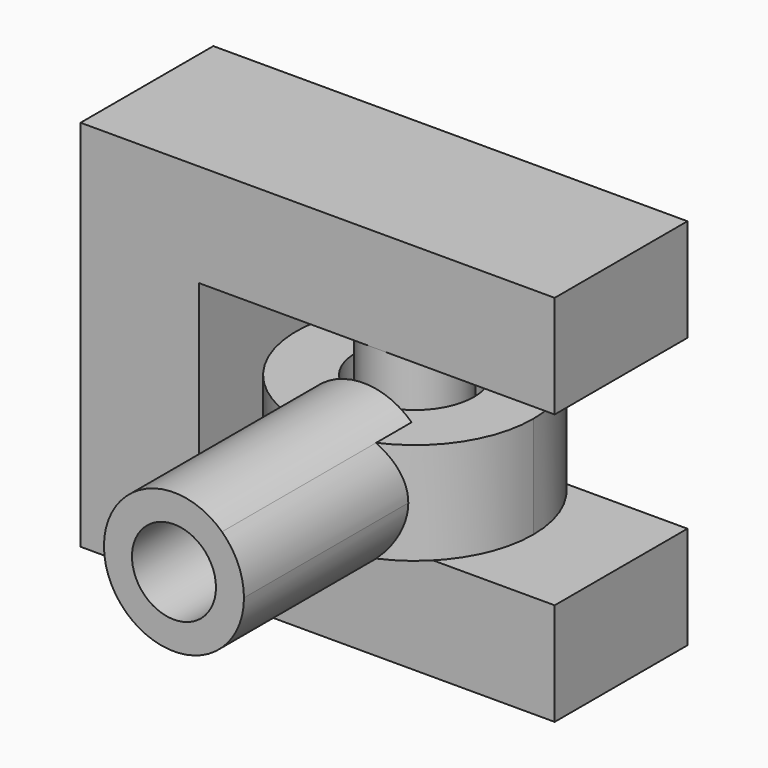
from build123d import *

# Parameters (mm, degrees)
F0_W      = 25.4
F0_H      = 8.89
F1_DEPTH  = 10
F2_W      = 19.05
F2_H      = 9
F3_DEPTH  = 8.891
F4_R      = 2.54
F5_DEPTH  = 9
F7_R      = 3.175
F8_DEPTH  = 5.46
F11_DEPTH = 12.7
F12_R     = 2.25
F13_DEPTH = 10.16


with BuildPart() as f1:
    # F0 (on Top) → F1 (new body, symmetric)
    with BuildSketch(Plane.XY):
        Rectangle(F0_W, F0_H)
    extrude(amount=F1_DEPTH, both=True)

    # F2 (on face) → F3 (cut, through all)
    with BuildSketch(Plane.XZ.offset(4.445)):
        with Locations((3.175, 0)):
            Rectangle(F2_W, F2_H)
    extrude(amount=-F3_DEPTH, mode=Mode.SUBTRACT)

    # F4 (on face) → F5 (join, through all)
    with BuildSketch(Plane.XY.offset(-4.5)):
        with Locations((3.175, -1.905)):
            Circle(F4_R)
    extrude(amount=F5_DEPTH)


with BuildPart() as f8:
    # F7 (on offset) → F8 (new body)
    with BuildSketch(Plane.XY.offset(-3.23)):
        with BuildLine():
            ThreePointArc((3.1750000069, 4.445), (-1.315128063, -6.3951280581), (9.525, -1.905))
            ThreePointArc((9.525, -1.905), (7.665128063, 2.5851280581), (3.1750000069, 4.445))
        make_face()
        with Locations((3.175, -1.905)):
            Circle(F7_R, mode=Mode.SUBTRACT)
    extrude(amount=F8_DEPTH)

    # F10 (on offset) → F11 (join)
    with BuildSketch(Plane.XZ.offset(5.334)):
        with BuildLine():
            ThreePointArc((0.6040857657, -3.23), (3.175, -4.25), (5.7459142343, -3.23))
            Line((5.7459142343, -3.23), (0.6040857657, -3.23))
        make_face()
        with BuildLine():
            Line((0.6040857657, -3.23), (5.7459142343, -3.23))
            ThreePointArc((5.7459142343, -3.23), (6.6176318696, -1.986871148), (6.925, -0.5))
            ThreePointArc((6.925, -0.5), (6.6176318696, 0.986871148), (5.7459142343, 2.23))
            Line((5.7459142343, 2.23), (0.6040857657, 2.23))
            ThreePointArc((0.6040857657, 2.23), (-0.575, -0.5), (0.6040857657, -3.23))
        make_face()
        with BuildLine():
            ThreePointArc((5.7459142343, 2.23), (3.175, 3.25), (0.6040857657, 2.23))
            Line((0.6040857657, 2.23), (5.7459142343, 2.23))
        make_face()
    extrude(amount=F11_DEPTH)

    # F12 (on face) → F13 (cut)
    with BuildSketch(Plane.XZ.offset(18.034)):
        with Locations((3.175, -0.5)):
            Circle(F12_R)
    extrude(amount=-F13_DEPTH, mode=Mode.SUBTRACT)


solid = Compound([f1.part, f8.part])
